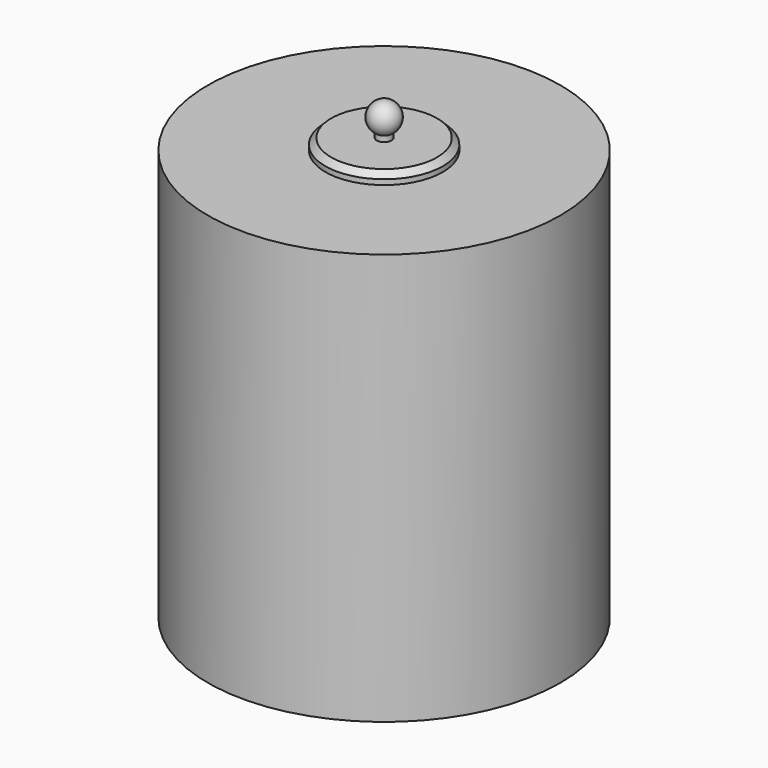
from build123d import *

# Parameters (mm, degrees)
F2_W      = 44.45
F2_H      = 9.525
F8_W      = 6.35
F8_H      = 6.7640505731
F10_R     = 107.95
F10_R_2   = 101.6
F10_R_3   = 95.25
F10_R_4   = 3.175
F11_DEPTH = 3.175
F12_SIZE  = 5.08
F15_W     = 50.8
F15_H     = 50.8
F15_R     = 6.35
F16_DEPTH = 6.35
F17_R     = 146.05
F17_R_2   = 3.175
F18_DEPTH = 12.7


with BuildPart() as f1:
    # F0 (on Front) → F1 (revolve)
    with BuildSketch(Plane.XZ):
        Polygon((152.4, 0), (6.35, 0), (6.35, -19.05), (146.05, -19.05), (146.05, -349.25), (146.05, -355.6), (152.4, -355.6), align=None)
    revolve(axis=Axis((0, 0, -377.825), (0, 0, 1)))


with BuildPart() as f3:
    # F2 (on Front) → F3 (revolve)
    with BuildSketch(Plane.XZ):
        with Locations((28.575, 4.7625)):
            Rectangle(F2_W, F2_H)
    revolve(axis=Axis((0, 0, 6.35), (0, 0, -1)))

    # F12
    f12_edges = [f3.edges().sort_by_distance(p)[0] for p in [
        (-50.8, 0, 9.525),
    ]]
    chamfer(f12_edges, length=F12_SIZE)


with BuildPart() as f5:
    # F4 (on Front) → F5 (revolve)
    with BuildSketch(Plane.XZ):
        with BuildLine():
            Line((6.35, 0), (0, 0))
            Line((0, 0), (0, -81.28))
            Line((0, -81.28), (0, -132.08))
            ThreePointArc((0, -132.08), (25.1975542852, -109.8805090291), (6.35, -82.0865557516))
            Line((6.35, -82.0865557516), (6.35, 0))
        make_face()
        with BuildLine():
            Line((0, 38.1), (0, 0))
            Line((0, 0), (6.35, 0))
            Line((6.35, 0), (6.35, 14.4014773719))
            ThreePointArc((6.35, 14.4014773719), (12.2672579939, 28.6870018728), (0, 38.1))
        make_face()
    revolve(axis=Axis((0, 0, -40.64), (0, 0, -1)))


with BuildPart() as f7:
    # F6 (on Front) → F7 (revolve)
    with BuildSketch(Plane.XZ):
        Polygon((101.6, -69.85), (6.35, -69.85), (6.35, -76.2), (95.25, -76.2), (95.25, -184.15), (101.6, -184.15), align=None)
    revolve(axis=Axis((0, 0, -73.025), (0, 0, 1)))


with BuildPart() as f9:
    # F8 (on Front) → F9 (revolve)
    with BuildSketch(Plane.XZ):
        with Locations((9.525, -66.4679747134)):
            Rectangle(F8_W, F8_H)
    revolve(axis=Axis((0, 0, -73.778109625), (0, 0, -1)))


with BuildPart() as f9b:
    # F8 (on Front) → F9, piece 2 (revolve)
    with BuildSketch(Plane.XZ):
        with Locations((9.525, -79.5820252866)):
            Rectangle(F8_W, F8_H)
    revolve(axis=Axis((0, 0, -73.778109625), (0, 0, -1)))


with BuildPart() as f11:
    # F10 (on face) → F11 (new body)
    with BuildSketch(Plane(origin=(0, 0, -184.15), x_dir=(1, 0, 0), z_dir=(0, 0, -1))):
        Circle(F10_R)
        Circle(F10_R_2, mode=Mode.SUBTRACT)
        Circle(F10_R_2)
        Circle(F10_R_3, mode=Mode.SUBTRACT)
        Circle(F10_R_3)
        Circle(F10_R_4, mode=Mode.SUBTRACT)
    extrude(amount=F11_DEPTH)


with BuildPart() as f14:
    # F13 (on Front) → F14 (revolve)
    with BuildSketch(Plane.XZ):
        Polygon((11.2173510715, -180.975), (0, -180.975), (0, -368.3), (3.175, -368.3), (3.175, -184.15), (11.2173510715, -184.15), align=None)
    revolve(axis=Axis((0, 0, -274.6375), (0, 0, 1)))


with BuildPart() as f16:
    # F15 (on face) → F16 (new body)
    with BuildSketch(Plane(origin=(0, 0, -19.05), x_dir=(1, 0, 0), z_dir=(0, 0, -1))):
        Rectangle(F15_W, F15_H)
        Circle(F15_R, mode=Mode.SUBTRACT)
    extrude(amount=F16_DEPTH)


with BuildPart() as f18:
    # F17 (on face) → F18 (new body)
    with BuildSketch(Plane(origin=(0, 0, -355.6), x_dir=(1, 0, 0), z_dir=(0, 0, -1))):
        Circle(F17_R)
        Circle(F17_R_2, mode=Mode.SUBTRACT)
    extrude(amount=-F18_DEPTH)


solid = Compound([f1.part, f3.part, f5.part, f7.part, f9.part, f9b.part, f11.part, f14.part, f16.part, f18.part])
